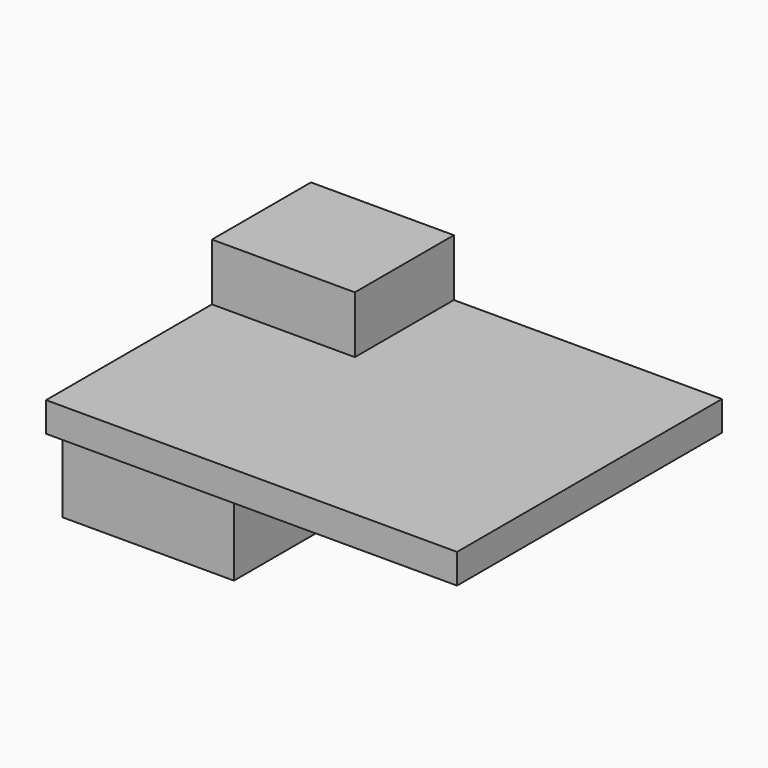
from build123d import *

# Parameters (mm, degrees)
F0_W     = 22.86
F0_H     = 18.415
F1_DEPTH = 1.651
F2_W     = 7.9502
F2_H     = 6.8834
F3_DEPTH = 3.175
F4_W     = 9.525
F4_H     = 7.62
F5_DEPTH = 4.064
F6_R     = 1.27
F7_DEPTH = 3.175


with BuildPart() as f1:
    # F0 (on Top) → F1 (new body)
    with BuildSketch(Plane.XY):
        Rectangle(F0_W, F0_H)
    extrude(amount=F1_DEPTH)

    # F2 (on face) → F3 (join)
    with BuildSketch(Plane.XY.offset(1.651)):
        with Locations((-7.4549, 5.7658)):
            Rectangle(F2_W, F2_H)
    extrude(amount=F3_DEPTH)

    # F4 (on Top) → F5 (join)
    with BuildSketch(Plane.XY):
        with Locations((-6.068009, -4.990071)):
            Rectangle(F4_W, F4_H)
    extrude(amount=-F5_DEPTH)

    # F6 (on face) → F7 (cut)
    with BuildSketch(Plane(origin=(0, 0, -4.064), x_dir=(1, 0, 0), z_dir=(0, 0, -1))):
        with Locations((-6.068009, 4.990071)):
            Circle(F6_R)
    extrude(amount=-F7_DEPTH, mode=Mode.SUBTRACT)


solid = f1.part
